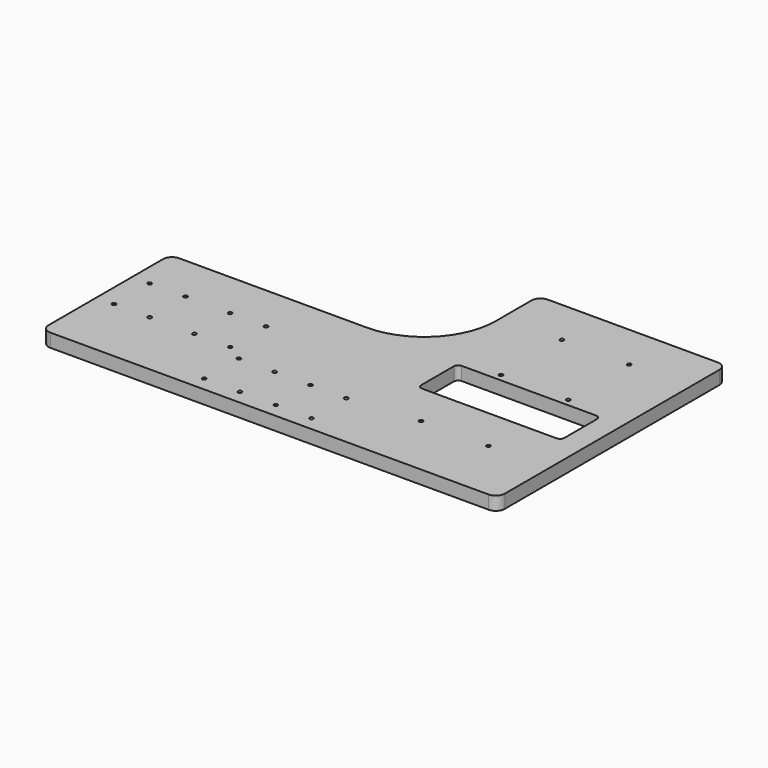
from build123d import *

# Parameters (mm, degrees)
F1_DEPTH = 9.525
F3_D     = 2.7178


with BuildPart() as f1:
    # F0 (on Top) → F1 (new body)
    with BuildSketch(Plane.XY):
        with BuildLine():
            Line((161.925, -95.25), (161.925, 95.25))
            ThreePointArc((161.925, 95.25), (160.065128, 99.740128), (155.575, 101.6))
            Line((155.575, 101.6), (34.925, 101.6))
            ThreePointArc((34.925, 101.6), (30.434872, 99.740128), (28.575, 95.25))
            Line((28.575, 95.25), (28.575, 63.5))
            ThreePointArc((28.575, 63.5), (13.696024, 27.578976), (-22.225, 12.7))
            Line((-22.225, 12.7), (-155.575, 12.7))
            ThreePointArc((-155.575, 12.7), (-160.065128, 10.840128), (-161.925, 6.35))
            Line((-161.925, 6.35), (-161.925, -95.25))
            ThreePointArc((-161.925, -95.25), (-160.065128, -99.740128), (-155.575, -101.6))
            Line((-155.575, -101.6), (155.575, -101.6))
            ThreePointArc((155.575, -101.6), (160.065128, -99.740128), (161.925, -95.25))
        make_face()
        with BuildLine():
            Line((47.371, 9.652), (142.875, 9.652))
            ThreePointArc((142.875, 9.652), (145.030261, 8.759261), (145.923, 6.604))
            Line((145.923, 6.604), (145.923, -22.352))
            ThreePointArc((145.923, -22.352), (145.030261, -24.507261), (142.875, -25.4))
            Line((142.875, -25.4), (47.371, -25.4))
            ThreePointArc((47.371, -25.4), (45.215739, -24.507261), (44.323, -22.352))
            Line((44.323, -22.352), (44.323, 6.604))
            ThreePointArc((44.323, 6.604), (45.215739, 8.759261), (47.371, 9.652))
        make_face(mode=Mode.SUBTRACT)
    extrude(amount=-F1_DEPTH)

    # F3 (through all)
    with Locations(Plane.XY):
        with Locations((118.999, -56.134), (118.999, 14.732), (118.999, 68.834), (71.247, 68.834), (71.247, 14.732), (71.247, -56.134), (21.717, -60.706), (21.717, -91.44), (-3.683, -60.706), (-3.683, -91.44), (-29.083, -60.706), (-29.083, -91.44), (-54.483, -91.44), (-54.483, -60.706), (-66.929, -52.832), (-66.929, -21.082), (-92.329, -52.832), (-92.329, -21.082), (-124.079, -52.832), (-124.079, -21.082), (-149.479, -52.832), (-149.479, -21.082)):
            Hole(F3_D / 2)


solid = f1.part
